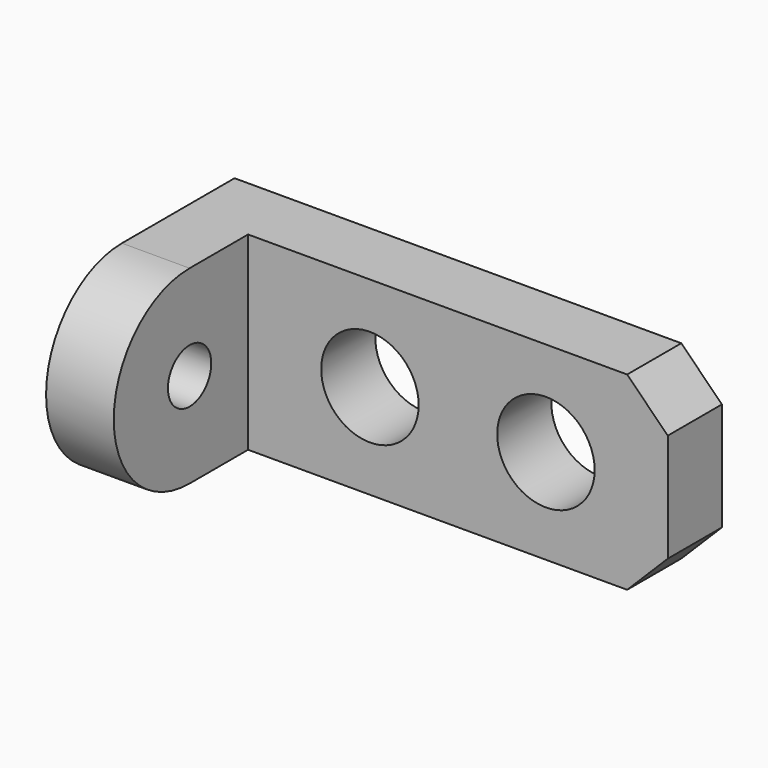
from build123d import *

# Parameters (mm, degrees)
F0_W     = 155
F0_H     = 70
F0_R     = 18
F0_W_2   = 25
F1_DEPTH = 25
F2_R     = 10
F3_DEPTH = 25
F4_SIZE  = 15


with BuildPart() as f1:
    # F0 (on Front) → F1 (new body)
    with BuildSketch(Plane.XZ):
        with Locations((12.5, 0)):
            Rectangle(F0_W, F0_H)
        with Locations((-20, 0)):
            Circle(F0_R, mode=Mode.SUBTRACT)
        with Locations((45, 0)):
            Circle(F0_R, mode=Mode.SUBTRACT)
        with Locations((-77.5, 0)):
            Rectangle(F0_W_2, F0_H)
    extrude(amount=-F1_DEPTH)

    # F2 (on face) → F3 (join)
    with BuildSketch(Plane(origin=(-90, 0, 0), x_dir=(0, -1, 0), z_dir=(-1, 0, 0))):
        with BuildLine():
            Line((27, 35), (0, 35))
            Line((0, 35), (0, -35))
            Line((0, -35), (27, -35))
            ThreePointArc((27, -35), (62, 0), (27, 35))
        make_face()
        with Locations((27, 0)):
            Circle(F2_R, mode=Mode.SUBTRACT)
    extrude(amount=-F3_DEPTH)

    # F4
    f4_edges = [f1.edges().sort_by_distance(p)[0] for p in [
        (90, 12.5, 35),
        (90, 12.5, -35),
    ]]
    chamfer(f4_edges, length=F4_SIZE)


solid = f1.part
